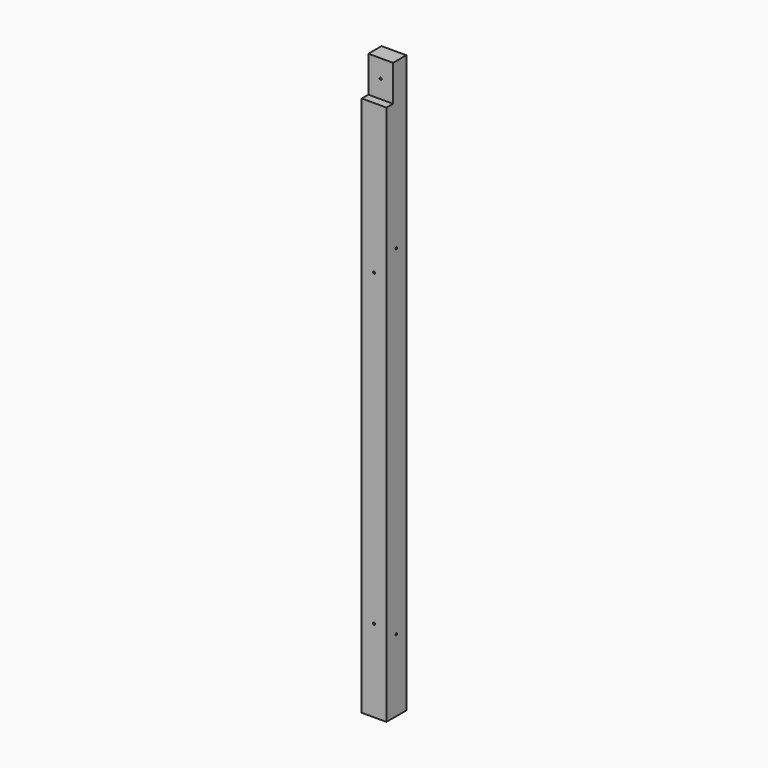
from build123d import *

# Parameters (mm, degrees)
F0_W     = 120
F0_H     = 120
F1_DEPTH = 1400
F2_W     = 40
F2_H     = 175
F3_DEPTH = 120
F4_R     = 5.25
F5_DEPTH = 120.001
F6_R     = 5.25
F7_DEPTH = 120.001


with BuildPart() as f1:
    # F0 (on Top) → F1 (new body, symmetric)
    with BuildSketch(Plane.XY):
        Rectangle(F0_W, F0_H)
    extrude(amount=F1_DEPTH, both=True)

    # F2 (on face) → F3 (cut, through all)
    with BuildSketch(Plane.YZ.offset(60)):
        with Locations((-40, 1312.5)):
            Rectangle(F2_W, F2_H)
    extrude(amount=-F3_DEPTH, mode=Mode.SUBTRACT)

    # F4 (on face) → F5 (cut, through all)
    with BuildSketch(Plane(origin=(0, 60, 0), x_dir=(-1, 0, 0), z_dir=(0, 1, 0))):
        with Locations((0, 1312.5)):
            Circle(F4_R)
        with Locations((0, -1000)):
            Circle(F4_R)
        with Locations((0, 500)):
            Circle(F4_R)
    extrude(amount=-F5_DEPTH, mode=Mode.SUBTRACT)

    # F6 (on face) → F7 (cut, through all)
    with BuildSketch(Plane.YZ.offset(60)):
        with Locations((0, -1050)):
            Circle(F6_R)
        with Locations((0, 600)):
            Circle(F6_R)
    extrude(amount=-F7_DEPTH, mode=Mode.SUBTRACT)


solid = f1.part
